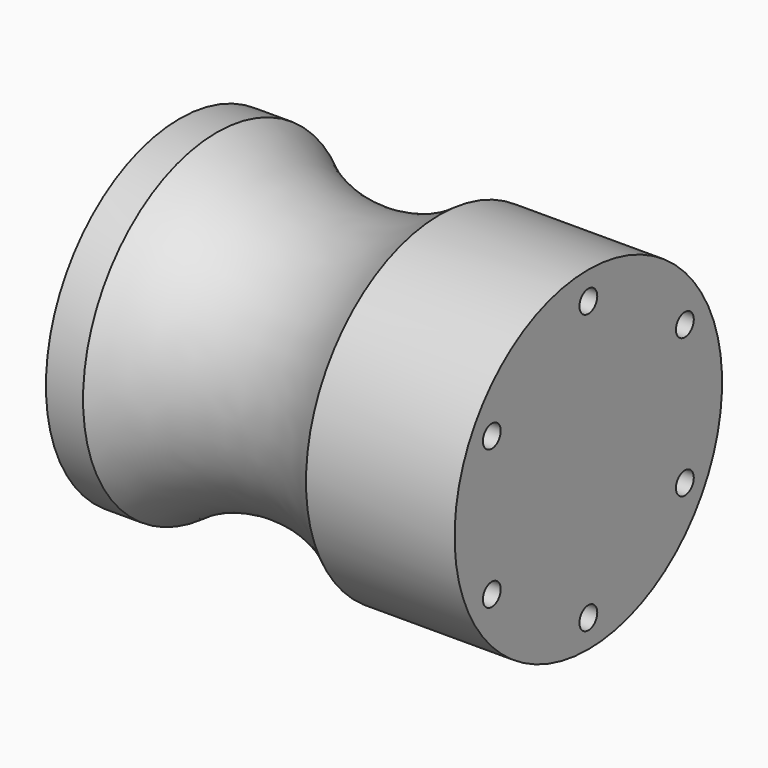
from build123d import *

# Parameters (mm, degrees)
F2_R     = 1.905
F3_DEPTH = 19.05


with BuildPart() as f1:
    # F0 (on Front) → F1 (revolve)
    with BuildSketch(Plane.XZ):
        with BuildLine():
            Line((34.925, -14.2875), (34.925, 14.2875))
            Line((34.925, 14.2875), (9.525, 14.2875))
            ThreePointArc((9.525, 14.2875), (-9.525, 7.9375), (-28.575, 14.2875))
            Line((-28.575, 14.2875), (-34.925, 14.2875))
            Line((-34.925, 14.2875), (-34.925, -14.2875))
            Line((-34.925, -14.2875), (34.925, -14.2875))
        make_face()
    revolve(axis=Axis((0, 0, -14.2875), (-1, 0, 0)))

    # F2 (on face) → F3 (cut)
    with BuildSketch(Plane.YZ.offset(34.925)):
        with Locations((0, 9.525)):
            Circle(F2_R)
        with Locations((-20.62223, -2.38125)):
            Circle(F2_R)
        with Locations((-20.62223, -26.19375)):
            Circle(F2_R)
        with Locations((0, -38.1)):
            Circle(F2_R)
        with Locations((20.62223, -26.19375)):
            Circle(F2_R)
        with Locations((20.62223, -2.38125)):
            Circle(F2_R)
    extrude(amount=-F3_DEPTH, mode=Mode.SUBTRACT)


solid = f1.part
